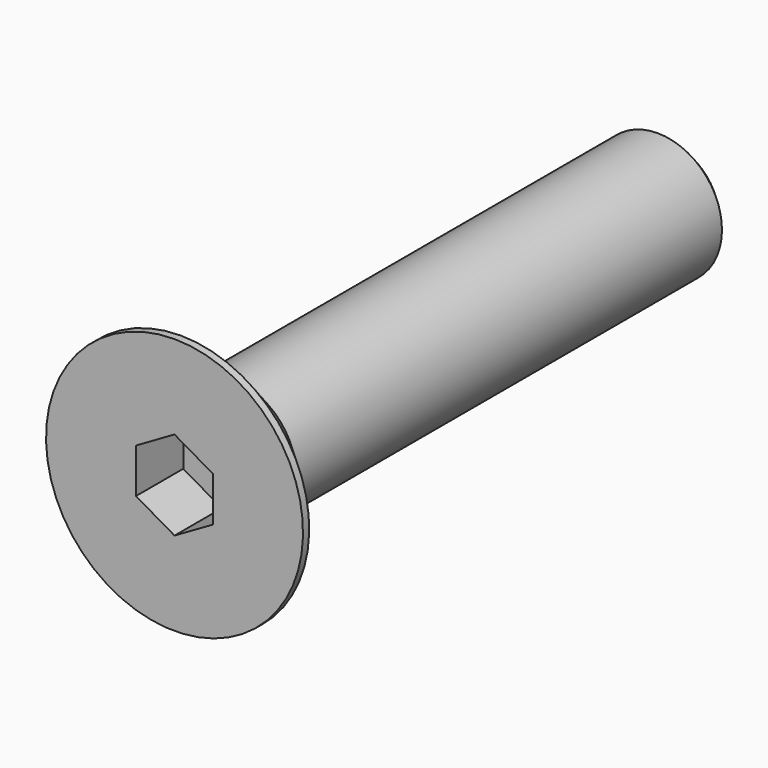
from build123d import *

# Parameters (mm, degrees)
F2_SIZE  = 0.5
F4_DEPTH = 2.3


with BuildPart() as f1:
    # F0 (on Right) → F1 (revolve)
    with BuildSketch(Plane.YZ):
        Polygon((-2.8, 5), (-2.8, 0), (21.2, 0), (21.2, 2.5), (0, 2.5), (-2.5, 5), align=None)
    revolve(axis=Axis((0, 9.2, 0), (0, 1, 0)))

    # F2
    f2_edges = [f1.edges().sort_by_distance(p)[0] for p in [
        (0, 21.2, -2.5),
    ]]
    chamfer(f2_edges, length=F2_SIZE)

    # F3 (on face) → F4 (cut)
    with BuildSketch(Plane.XZ.offset(2.8)):
        Polygon((0, -1.732051), (1.5, -0.866025), (1.5, 0.866025), (0, 1.732051), (-1.5, 0.866025), (-1.5, -0.866025), align=None)
    extrude(amount=-F4_DEPTH, mode=Mode.SUBTRACT)


solid = f1.part
